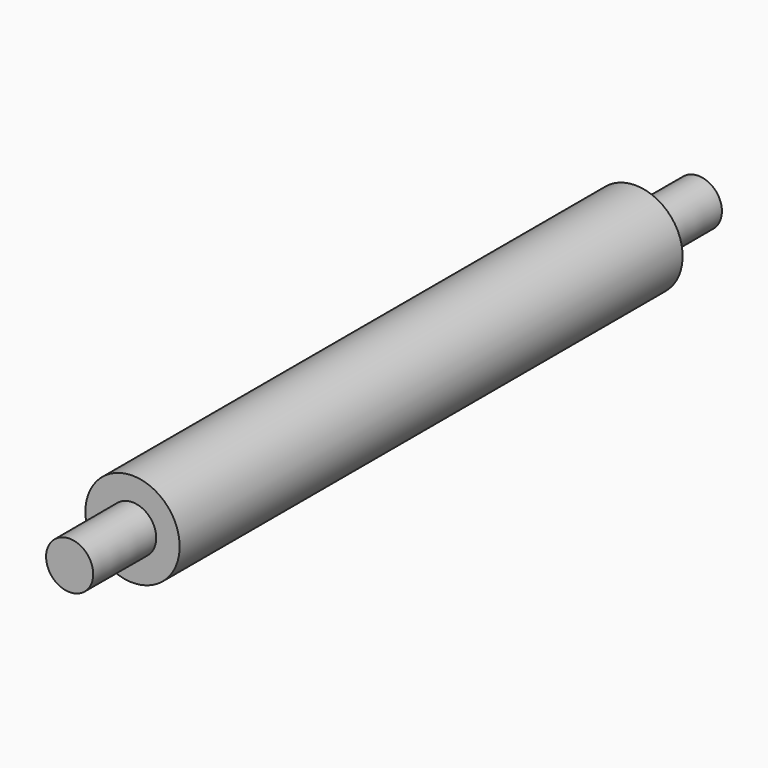
from build123d import *


with BuildPart() as f1:
    # F0 (on Right) → F1 (revolve)
    with BuildSketch(Plane.YZ):
        Polygon((100, 0), (100, 6), (80, 6.032918), (0, 6.164591), (-80, 6.032918), (-100, 6), (-100, 0), (0, 0), align=None)
    revolve(axis=Axis((0, -50, 0), (0, -1, 0)))

    # F0 (on Right) → F2 (revolve)
    with BuildSketch(Plane.YZ):
        Polygon((0, 6.164591), (80, 6.032918), (80, 12), (0, 12), (-80, 12), (-80, 6.032918), align=None)
    revolve(axis=Axis((0, -50, 0), (0, -1, 0)))


solid = f1.part
